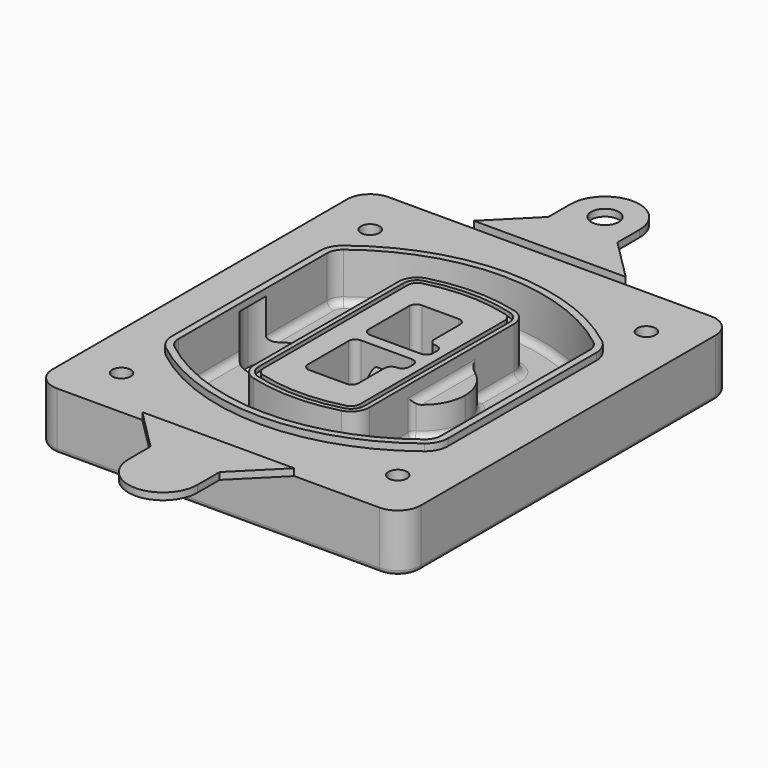
from build123d import *

# Parameters (mm, degrees)
F0_R      = 4
F1_DEPTH  = 25
F2_DEPTH  = 3
F3_DEPTH  = 18
F5_DEPTH  = 21
F6_DEPTH  = 2
F8_DEPTH  = 20
F9_DEPTH  = 16
F10_DEPTH = 25
F7_R      = 6
F7_R_2    = 4
F11_DEPTH = 6
F13_DEPTH = 9
F14_R     = 3
F15_R     = 2
F16_R     = 6
F17_DEPTH = 3


with BuildPart() as f1:
    # F0 (on Top) → F1 (new body)
    with BuildSketch(Plane.XY):
        with BuildLine():
            ThreePointArc((14.05, 38.3825811321), (16.9789321881, 31.3115133202), (24.05, 28.3825811321))
            Line((24.05, 28.3825811321), (164.05, 28.3825811321))
            ThreePointArc((164.05, 28.3825811321), (171.1210678119, 31.3115133202), (174.05, 38.3825811321))
            Line((174.05, 38.3825811321), (174.05, 198.3825811321))
            ThreePointArc((174.05, 198.3825811321), (171.1210678119, 205.4536489439), (164.05, 208.3825811321))
            Line((164.05, 208.3825811321), (24.05, 208.3825811321))
            ThreePointArc((24.05, 208.3825811321), (16.9789321881, 205.4536489439), (14.05, 198.3825811321))
            Line((14.05, 198.3825811321), (14.05, 38.3825811321))
        make_face()
        with Locations((34.05, 50.8825811321)):
            Circle(F0_R, mode=Mode.SUBTRACT)
        with Locations((154.05, 50.8825811321)):
            Circle(F0_R, mode=Mode.SUBTRACT)
        with BuildLine():
            ThreePointArc((30.05, 158.6760234193), (31.4679615202, 164.8154295545), (35.4346153846, 169.7112011673))
            ThreePointArc((35.4346153846, 169.7112011673), (94.05, 189.8825811321), (152.6653846154, 169.7112011673))
            ThreePointArc((152.6653846154, 169.7112011673), (156.6320384798, 164.8154295545), (158.05, 158.6760234193))
            Line((158.05, 158.6760234193), (158.05, 78.0891388448))
            ThreePointArc((158.05, 78.0891388448), (156.6320384798, 71.9497327097), (152.6653846154, 67.0539610969))
            ThreePointArc((152.6653846154, 67.0539610969), (94.05, 46.8825811321), (35.4346153846, 67.0539610969))
            ThreePointArc((35.4346153846, 67.0539610969), (31.4679615202, 71.9497327097), (30.05, 78.0891388448))
            Line((30.05, 78.0891388448), (30.05, 158.6760234193))
        make_face(mode=Mode.SUBTRACT)
        with Locations((34.05, 185.8825811321)):
            Circle(F0_R, mode=Mode.SUBTRACT)
        with Locations((154.05, 185.8825811321)):
            Circle(F0_R, mode=Mode.SUBTRACT)
        with BuildLine():
            ThreePointArc((152.6653846154, 169.7112011673), (94.05, 189.8825811321), (35.4346153846, 169.7112011673))
            ThreePointArc((35.4346153846, 169.7112011673), (31.4679615202, 164.8154295545), (30.05, 158.6760234193))
            Line((30.05, 158.6760234193), (30.05, 78.0891388448))
            ThreePointArc((30.05, 78.0891388448), (31.4679615202, 71.9497327097), (35.4346153846, 67.0539610969))
            ThreePointArc((35.4346153846, 67.0539610969), (94.05, 46.8825811321), (152.6653846154, 67.0539610969))
            ThreePointArc((152.6653846154, 67.0539610969), (156.6320384798, 71.9497327097), (158.05, 78.0891388448))
            Line((158.05, 78.0891388448), (158.05, 158.6760234193))
            ThreePointArc((158.05, 158.6760234193), (156.6320384798, 164.8154295545), (152.6653846154, 169.7112011673))
        make_face()
        with BuildLine():
            Line((34.05, 78.0891388448), (34.05, 158.6760234193))
            ThreePointArc((34.05, 158.6760234193), (35.0628296573, 163.0613135158), (37.8961538462, 166.5582932393))
            ThreePointArc((37.8961538462, 166.5582932393), (94.05, 185.8825811321), (150.2038461538, 166.5582932393))
            ThreePointArc((150.2038461538, 166.5582932393), (153.0371703427, 163.0613135158), (154.05, 158.6760234193))
            Line((154.05, 158.6760234193), (154.05, 78.0891388448))
            ThreePointArc((154.05, 78.0891388448), (153.0371703427, 73.7038487483), (150.2038461538, 70.2068690248))
            ThreePointArc((150.2038461538, 70.2068690248), (94.05, 50.8825811321), (37.8961538462, 70.2068690248))
            ThreePointArc((37.8961538462, 70.2068690248), (35.0628296573, 73.7038487483), (34.05, 78.0891388448))
        make_face(mode=Mode.SUBTRACT)
        with BuildLine():
            ThreePointArc((37.8961538462, 166.5582932393), (35.0628296573, 163.0613135158), (34.05, 158.6760234193))
            Line((34.05, 158.6760234193), (34.05, 78.0891388448))
            ThreePointArc((34.05, 78.0891388448), (35.0628296573, 73.7038487483), (37.8961538462, 70.2068690248))
            ThreePointArc((37.8961538462, 70.2068690248), (94.05, 50.8825811321), (150.2038461538, 70.2068690248))
            ThreePointArc((150.2038461538, 70.2068690248), (153.0371703427, 73.7038487483), (154.05, 78.0891388448))
            Line((154.05, 78.0891388448), (154.05, 158.6760234193))
            ThreePointArc((154.05, 158.6760234193), (153.0371703427, 163.0613135158), (150.2038461538, 166.5582932393))
            ThreePointArc((150.2038461538, 166.5582932393), (94.05, 185.8825811321), (37.8961538462, 166.5582932393))
        make_face()
        with BuildLine():
            ThreePointArc((148.3576923077, 164.1936122933), (150.3410192399, 161.7457264869), (151.05, 158.6760234193))
            Line((151.05, 158.6760234193), (151.05, 78.0891388448))
            ThreePointArc((151.05, 78.0891388448), (150.3410192399, 75.0194357772), (148.3576923077, 72.5715499708))
            ThreePointArc((148.3576923077, 72.5715499708), (94.05, 53.8825811321), (39.7423076923, 72.5715499708))
            ThreePointArc((39.7423076923, 72.5715499708), (37.7589807601, 75.0194357772), (37.05, 78.0891388448))
            Line((37.05, 78.0891388448), (37.05, 158.6760234193))
            ThreePointArc((37.05, 158.6760234193), (37.7589807601, 161.7457264869), (39.7423076923, 164.1936122933))
            ThreePointArc((39.7423076923, 164.1936122933), (94.05, 182.8825811321), (148.3576923077, 164.1936122933))
        make_face(mode=Mode.SUBTRACT)
        with BuildLine():
            Line((151.05, 78.0891388448), (151.05, 158.6760234193))
            ThreePointArc((151.05, 158.6760234193), (150.3410192399, 161.7457264869), (148.3576923077, 164.1936122933))
            ThreePointArc((148.3576923077, 164.1936122933), (94.05, 182.8825811321), (39.7423076923, 164.1936122933))
            ThreePointArc((39.7423076923, 164.1936122933), (37.7589807601, 161.7457264869), (37.05, 158.6760234193))
            Line((37.05, 158.6760234193), (37.05, 78.0891388448))
            ThreePointArc((37.05, 78.0891388448), (37.7589807601, 75.0194357772), (39.7423076923, 72.5715499708))
            ThreePointArc((39.7423076923, 72.5715499708), (94.05, 53.8825811321), (148.3576923077, 72.5715499708))
            ThreePointArc((148.3576923077, 72.5715499708), (150.3410192399, 75.0194357772), (151.05, 78.0891388448))
        make_face()
    extrude(amount=-F1_DEPTH)

    # F0 (on Top) → F2 (join)
    with BuildSketch(Plane.XY):
        with BuildLine():
            ThreePointArc((37.8961538462, 166.5582932393), (35.0628296573, 163.0613135158), (34.05, 158.6760234193))
            Line((34.05, 158.6760234193), (34.05, 78.0891388448))
            ThreePointArc((34.05, 78.0891388448), (35.0628296573, 73.7038487483), (37.8961538462, 70.2068690248))
            ThreePointArc((37.8961538462, 70.2068690248), (94.05, 50.8825811321), (150.2038461538, 70.2068690248))
            ThreePointArc((150.2038461538, 70.2068690248), (153.0371703427, 73.7038487483), (154.05, 78.0891388448))
            Line((154.05, 78.0891388448), (154.05, 158.6760234193))
            ThreePointArc((154.05, 158.6760234193), (153.0371703427, 163.0613135158), (150.2038461538, 166.5582932393))
            ThreePointArc((150.2038461538, 166.5582932393), (94.05, 185.8825811321), (37.8961538462, 166.5582932393))
        make_face()
        with BuildLine():
            ThreePointArc((148.3576923077, 164.1936122933), (150.3410192399, 161.7457264869), (151.05, 158.6760234193))
            Line((151.05, 158.6760234193), (151.05, 78.0891388448))
            ThreePointArc((151.05, 78.0891388448), (150.3410192399, 75.0194357772), (148.3576923077, 72.5715499708))
            ThreePointArc((148.3576923077, 72.5715499708), (94.05, 53.8825811321), (39.7423076923, 72.5715499708))
            ThreePointArc((39.7423076923, 72.5715499708), (37.7589807601, 75.0194357772), (37.05, 78.0891388448))
            Line((37.05, 78.0891388448), (37.05, 158.6760234193))
            ThreePointArc((37.05, 158.6760234193), (37.7589807601, 161.7457264869), (39.7423076923, 164.1936122933))
            ThreePointArc((39.7423076923, 164.1936122933), (94.05, 182.8825811321), (148.3576923077, 164.1936122933))
        make_face(mode=Mode.SUBTRACT)
    extrude(amount=F2_DEPTH)

    # F0 (on Top) → F3 (cut)
    with BuildSketch(Plane.XY):
        with BuildLine():
            Line((151.05, 78.0891388448), (151.05, 158.6760234193))
            ThreePointArc((151.05, 158.6760234193), (150.3410192399, 161.7457264869), (148.3576923077, 164.1936122933))
            ThreePointArc((148.3576923077, 164.1936122933), (94.05, 182.8825811321), (39.7423076923, 164.1936122933))
            ThreePointArc((39.7423076923, 164.1936122933), (37.7589807601, 161.7457264869), (37.05, 158.6760234193))
            Line((37.05, 158.6760234193), (37.05, 78.0891388448))
            ThreePointArc((37.05, 78.0891388448), (37.7589807601, 75.0194357772), (39.7423076923, 72.5715499708))
            ThreePointArc((39.7423076923, 72.5715499708), (94.05, 53.8825811321), (148.3576923077, 72.5715499708))
            ThreePointArc((148.3576923077, 72.5715499708), (150.3410192399, 75.0194357772), (151.05, 78.0891388448))
        make_face()
    extrude(amount=-F3_DEPTH, mode=Mode.SUBTRACT)

    # F4 (on face) → F5 (join, through all)
    with BuildSketch(Plane.XY.offset(3)):
        with BuildLine():
            ThreePointArc((69.05, 79.13605345), (70.6988454002, 74.2716074128), (74.9657088123, 71.4123412437))
            ThreePointArc((74.9657088123, 71.4123412437), (94.05, 68.8825811321), (113.1342911877, 71.4123412437))
            ThreePointArc((113.1342911877, 71.4123412437), (117.4011545998, 74.2716074128), (119.05, 79.13605345))
            Line((119.05, 79.13605345), (119.05, 157.6291088141))
            ThreePointArc((119.05, 157.6291088141), (117.4011545998, 162.4935548514), (113.1342911877, 165.3528210204))
            ThreePointArc((113.1342911877, 165.3528210204), (94.05, 167.8825811321), (74.9657088123, 165.3528210204))
            ThreePointArc((74.9657088123, 165.3528210204), (70.6988454002, 162.4935548514), (69.05, 157.6291088141))
            Line((69.05, 157.6291088141), (69.05, 79.13605345))
        make_face()
        with BuildLine():
            ThreePointArc((112.6132183908, 163.4218929688), (115.8133659499, 161.2774433421), (117.05, 157.6291088141))
            Line((117.05, 157.6291088141), (117.05, 79.13605345))
            ThreePointArc((117.05, 79.13605345), (115.8133659499, 75.4877189221), (112.6132183908, 73.3432692953))
            ThreePointArc((112.6132183908, 73.3432692953), (94.05, 70.8825811321), (75.4867816092, 73.3432692953))
            ThreePointArc((75.4867816092, 73.3432692953), (72.2866340501, 75.4877189221), (71.05, 79.13605345))
            Line((71.05, 79.13605345), (71.05, 157.6291088141))
            ThreePointArc((71.05, 157.6291088141), (72.2866340501, 161.2774433421), (75.4867816092, 163.4218929688))
            ThreePointArc((75.4867816092, 163.4218929688), (94.05, 165.8825811321), (112.6132183908, 163.4218929688))
        make_face(mode=Mode.SUBTRACT)
        with BuildLine():
            Line((117.05, 79.13605345), (117.05, 157.6291088141))
            ThreePointArc((117.05, 157.6291088141), (115.8133659499, 161.2774433421), (112.6132183908, 163.4218929688))
            ThreePointArc((112.6132183908, 163.4218929688), (94.05, 165.8825811321), (75.4867816092, 163.4218929688))
            ThreePointArc((75.4867816092, 163.4218929688), (72.2866340501, 161.2774433421), (71.05, 157.6291088141))
            Line((71.05, 157.6291088141), (71.05, 79.13605345))
            ThreePointArc((71.05, 79.13605345), (72.2866340501, 75.4877189221), (75.4867816092, 73.3432692953))
            ThreePointArc((75.4867816092, 73.3432692953), (94.05, 70.8825811321), (112.6132183908, 73.3432692953))
            ThreePointArc((112.6132183908, 73.3432692953), (115.8133659499, 75.4877189221), (117.05, 79.13605345))
        make_face()
        with BuildLine():
            ThreePointArc((112.0921455939, 161.4909649173), (114.2255772999, 160.0613318328), (115.05, 157.6291088141))
            Line((115.05, 157.6291088141), (115.05, 79.13605345))
            ThreePointArc((115.05, 79.13605345), (114.2255772999, 76.7038304314), (112.0921455939, 75.2741973469))
            ThreePointArc((112.0921455939, 75.2741973469), (94.05, 72.8825811321), (76.0078544061, 75.2741973469))
            ThreePointArc((76.0078544061, 75.2741973469), (73.8744227001, 76.7038304314), (73.05, 79.13605345))
            Line((73.05, 79.13605345), (73.05, 157.6291088141))
            ThreePointArc((73.05, 157.6291088141), (73.8744227001, 160.0613318328), (76.0078544061, 161.4909649173))
            ThreePointArc((76.0078544061, 161.4909649173), (94.05, 163.8825811321), (112.0921455939, 161.4909649173))
        make_face(mode=Mode.SUBTRACT)
        with BuildLine():
            Line((115.05, 79.13605345), (115.05, 157.6291088141))
            ThreePointArc((115.05, 157.6291088141), (114.2255772999, 160.0613318328), (112.0921455939, 161.4909649173))
            ThreePointArc((112.0921455939, 161.4909649173), (94.05, 163.8825811321), (76.0078544061, 161.4909649173))
            ThreePointArc((76.0078544061, 161.4909649173), (73.8744227001, 160.0613318328), (73.05, 157.6291088141))
            Line((73.05, 157.6291088141), (73.05, 79.13605345))
            ThreePointArc((73.05, 79.13605345), (73.8744227001, 76.7038304314), (76.0078544061, 75.2741973469))
            ThreePointArc((76.0078544061, 75.2741973469), (94.05, 72.8825811321), (112.0921455939, 75.2741973469))
            ThreePointArc((112.0921455939, 75.2741973469), (114.2255772999, 76.7038304314), (115.05, 79.13605345))
        make_face()
        with BuildLine():
            Line((86.05, 115.8825811321), (108.05, 115.8825811321))
            ThreePointArc((108.05, 115.8825811321), (110.1713203436, 115.0039014756), (111.05, 112.8825811321))
            Line((111.05, 112.8825811321), (111.05, 110.8825811321))
            ThreePointArc((111.05, 110.8825811321), (110.1713203436, 108.7612607885), (108.05, 107.8825811321))
            ThreePointArc((108.05, 107.8825811321), (105.9286796564, 107.0039014756), (105.05, 104.8825811321))
            Line((105.05, 104.8825811321), (105.05, 90.8825811321))
            ThreePointArc((105.05, 90.8825811321), (104.1713203436, 88.7612607885), (102.05, 87.8825811321))
            Line((102.05, 87.8825811321), (86.05, 87.8825811321))
            ThreePointArc((86.05, 87.8825811321), (83.9286796564, 88.7612607885), (83.05, 90.8825811321))
            Line((83.05, 90.8825811321), (83.05, 112.8825811321))
            ThreePointArc((83.05, 112.8825811321), (83.9286796564, 115.0039014756), (86.05, 115.8825811321))
        make_face(mode=Mode.SUBTRACT)
        with BuildLine():
            ThreePointArc((86.05, 120.8825811321), (83.9286796564, 121.7612607885), (83.05, 123.8825811321))
            Line((83.05, 123.8825811321), (83.05, 145.8825811321))
            ThreePointArc((83.05, 145.8825811321), (83.9286796564, 148.0039014756), (86.05, 148.8825811321))
            Line((86.05, 148.8825811321), (102.05, 148.8825811321))
            ThreePointArc((102.05, 148.8825811321), (104.1713203436, 148.0039014756), (105.05, 145.8825811321))
            Line((105.05, 145.8825811321), (105.05, 131.8825811321))
            ThreePointArc((105.05, 131.8825811321), (105.9286796564, 129.7612607885), (108.05, 128.8825811321))
            ThreePointArc((108.05, 128.8825811321), (110.1713203436, 128.0039014756), (111.05, 125.8825811321))
            Line((111.05, 125.8825811321), (111.05, 123.8825811321))
            ThreePointArc((111.05, 123.8825811321), (110.1713203436, 121.7612607885), (108.05, 120.8825811321))
            Line((108.05, 120.8825811321), (86.05, 120.8825811321))
        make_face(mode=Mode.SUBTRACT)
    extrude(amount=-F5_DEPTH)

    # F4 (on face) → F6 (cut)
    with BuildSketch(Plane.XY.offset(3)):
        with BuildLine():
            Line((117.05, 79.13605345), (117.05, 157.6291088141))
            ThreePointArc((117.05, 157.6291088141), (115.8133659499, 161.2774433421), (112.6132183908, 163.4218929688))
            ThreePointArc((112.6132183908, 163.4218929688), (94.05, 165.8825811321), (75.4867816092, 163.4218929688))
            ThreePointArc((75.4867816092, 163.4218929688), (72.2866340501, 161.2774433421), (71.05, 157.6291088141))
            Line((71.05, 157.6291088141), (71.05, 79.13605345))
            ThreePointArc((71.05, 79.13605345), (72.2866340501, 75.4877189221), (75.4867816092, 73.3432692953))
            ThreePointArc((75.4867816092, 73.3432692953), (94.05, 70.8825811321), (112.6132183908, 73.3432692953))
            ThreePointArc((112.6132183908, 73.3432692953), (115.8133659499, 75.4877189221), (117.05, 79.13605345))
        make_face()
        with BuildLine():
            ThreePointArc((112.0921455939, 161.4909649173), (114.2255772999, 160.0613318328), (115.05, 157.6291088141))
            Line((115.05, 157.6291088141), (115.05, 79.13605345))
            ThreePointArc((115.05, 79.13605345), (114.2255772999, 76.7038304314), (112.0921455939, 75.2741973469))
            ThreePointArc((112.0921455939, 75.2741973469), (94.05, 72.8825811321), (76.0078544061, 75.2741973469))
            ThreePointArc((76.0078544061, 75.2741973469), (73.8744227001, 76.7038304314), (73.05, 79.13605345))
            Line((73.05, 79.13605345), (73.05, 157.6291088141))
            ThreePointArc((73.05, 157.6291088141), (73.8744227001, 160.0613318328), (76.0078544061, 161.4909649173))
            ThreePointArc((76.0078544061, 161.4909649173), (94.05, 163.8825811321), (112.0921455939, 161.4909649173))
        make_face(mode=Mode.SUBTRACT)
    extrude(amount=-F6_DEPTH, mode=Mode.SUBTRACT)

    # F7 (on face) → F8 (join)
    with BuildSketch(Plane(origin=(0, 0, -25), x_dir=(1, 0, 0), z_dir=(0, 0, -1))):
        with BuildLine():
            ThreePointArc((97.33842436, -118.3825811321), (110.8067035675, -104.9143019245), (124.274982775, -118.3825811321))
            Line((124.274982775, -118.3825811321), (129.274982775, -118.3825811321))
            ThreePointArc((129.274982775, -118.3825811321), (110.8067035675, -99.9143019245), (92.33842436, -118.3825811321))
            Line((92.33842436, -118.3825811321), (97.33842436, -118.3825811321))
        make_face()
        with BuildLine():
            Line((97.33842436, -118.3825811321), (124.274982775, -118.3825811321))
            ThreePointArc((124.274982775, -118.3825811321), (110.8067035675, -104.9143019245), (97.33842436, -118.3825811321))
        make_face()
        with BuildLine():
            ThreePointArc((97.33842436, -118.3825811321), (110.8067035675, -131.8508603396), (124.274982775, -118.3825811321))
            Line((124.274982775, -118.3825811321), (97.33842436, -118.3825811321))
        make_face()
        with BuildLine():
            Line((129.274982775, -118.3825811321), (124.274982775, -118.3825811321))
            ThreePointArc((124.274982775, -118.3825811321), (110.8067035675, -131.8508603396), (97.33842436, -118.3825811321))
            Line((97.33842436, -118.3825811321), (92.33842436, -118.3825811321))
            ThreePointArc((92.33842436, -118.3825811321), (110.8067035675, -136.8508603396), (129.274982775, -118.3825811321))
        make_face()
    extrude(amount=-F8_DEPTH)

    # F7 (on face) → F9 (cut)
    with BuildSketch(Plane(origin=(0, 0, -25), x_dir=(1, 0, 0), z_dir=(0, 0, -1))):
        with BuildLine():
            Line((97.33842436, -118.3825811321), (124.274982775, -118.3825811321))
            ThreePointArc((124.274982775, -118.3825811321), (110.8067035675, -104.9143019245), (97.33842436, -118.3825811321))
        make_face()
        with BuildLine():
            ThreePointArc((97.33842436, -118.3825811321), (110.8067035675, -131.8508603396), (124.274982775, -118.3825811321))
            Line((124.274982775, -118.3825811321), (97.33842436, -118.3825811321))
        make_face()
    extrude(amount=-F9_DEPTH, mode=Mode.SUBTRACT)

    # F7 (on face) → F10 (cut)
    with BuildSketch(Plane(origin=(0, 0, -25), x_dir=(1, 0, 0), z_dir=(0, 0, -1))):
        with BuildLine():
            Line((35.0181770675, -118.3825811321), (61.9547354825, -118.3825811321))
            ThreePointArc((61.9547354825, -118.3825811321), (48.486456275, -104.9143019245), (35.0181770675, -118.3825811321))
        make_face()
        with BuildLine():
            ThreePointArc((35.0181770675, -118.3825811321), (48.486456275, -131.8508603396), (61.9547354825, -118.3825811321))
            Line((61.9547354825, -118.3825811321), (35.0181770675, -118.3825811321))
        make_face()
    extrude(amount=-F10_DEPTH, mode=Mode.SUBTRACT)

    # F7 (on face) → F11 (cut)
    with BuildSketch(Plane(origin=(0, 0, -25), x_dir=(1, 0, 0), z_dir=(0, 0, -1))):
        with Locations((154.05, -185.8825811321)):
            Circle(F7_R)
        with Locations((154.05, -185.8825811321)):
            Circle(F7_R_2, mode=Mode.SUBTRACT)
        with Locations((154.05, -185.8825811321)):
            Circle(F7_R)
        with Locations((154.05, -185.8825811321)):
            Circle(F7_R_2, mode=Mode.SUBTRACT)
        with Locations((34.05, -185.8825811321)):
            Circle(F7_R)
        with Locations((34.05, -185.8825811321)):
            Circle(F7_R_2, mode=Mode.SUBTRACT)
        with Locations((34.05, -185.8825811321)):
            Circle(F7_R)
        with Locations((34.05, -185.8825811321)):
            Circle(F7_R_2, mode=Mode.SUBTRACT)
        with Locations((34.05, -50.8825811321)):
            Circle(F7_R)
        with Locations((34.05, -50.8825811321)):
            Circle(F7_R_2, mode=Mode.SUBTRACT)
        with Locations((34.05, -50.8825811321)):
            Circle(F7_R)
        with Locations((34.05, -50.8825811321)):
            Circle(F7_R_2, mode=Mode.SUBTRACT)
        with Locations((154.05, -50.8825811321)):
            Circle(F7_R)
        with Locations((154.05, -50.8825811321)):
            Circle(F7_R_2, mode=Mode.SUBTRACT)
        with Locations((154.05, -50.8825811321)):
            Circle(F7_R)
        with Locations((154.05, -50.8825811321)):
            Circle(F7_R_2, mode=Mode.SUBTRACT)
    extrude(amount=-F11_DEPTH, mode=Mode.SUBTRACT)

    # F12 (on face) → F13 (cut, through all)
    with BuildSketch(Plane(origin=(0, 0, -9), x_dir=(1, 0, 0), z_dir=(0, 0, -1))):
        with BuildLine():
            Line((105.05, -104.8825811321), (105.05, -100.8344273567))
            ThreePointArc((105.05, -100.8344273567), (96.6196536419, -106.5586667507), (92.5084157545, -115.8825811321))
            Line((92.5084157545, -115.8825811321), (97.5724848595, -115.8825811321))
            ThreePointArc((97.5724848595, -115.8825811321), (100.2357188154, -110.0369939039), (105.3036447004, -106.0898642673))
            ThreePointArc((105.3036447004, -106.0898642673), (105.1140958889, -105.4994012441), (105.05, -104.8825811321))
        make_face()
        with BuildLine():
            ThreePointArc((105.3036447004, -130.6752979968), (100.2357188154, -126.7281683602), (97.5724848595, -120.8825811321))
            Line((97.5724848595, -120.8825811321), (92.5084157545, -120.8825811321))
            ThreePointArc((92.5084157545, -120.8825811321), (96.6196536419, -130.2064955134), (105.05, -135.9307349074))
            Line((105.05, -135.9307349074), (105.05, -131.8825811321))
            ThreePointArc((105.05, -131.8825811321), (105.1140958889, -131.26576102), (105.3036447004, -130.6752979968))
        make_face()
        with BuildLine():
            ThreePointArc((105.3036447004, -106.0898642673), (100.2357188154, -110.0369939039), (97.5724848595, -115.8825811321))
            Line((97.5724848595, -115.8825811321), (108.05, -115.8825811321))
            ThreePointArc((108.05, -115.8825811321), (110.1713203436, -115.0039014756), (111.05, -112.8825811321))
            Line((111.05, -112.8825811321), (111.05, -110.8825811321))
            ThreePointArc((111.05, -110.8825811321), (110.1713203436, -108.7612607885), (108.05, -107.8825811321))
            ThreePointArc((108.05, -107.8825811321), (106.4101599782, -107.3947365219), (105.3036447004, -106.0898642673))
        make_face()
        with BuildLine():
            Line((108.05, -120.8825811321), (97.5724848595, -120.8825811321))
            ThreePointArc((97.5724848595, -120.8825811321), (100.2357188154, -126.7281683602), (105.3036447004, -130.6752979968))
            ThreePointArc((105.3036447004, -130.6752979968), (106.4101599782, -129.3704257422), (108.05, -128.8825811321))
            ThreePointArc((108.05, -128.8825811321), (110.1713203436, -128.0039014756), (111.05, -125.8825811321))
            Line((111.05, -125.8825811321), (111.05, -123.8825811321))
            ThreePointArc((111.05, -123.8825811321), (110.1713203436, -121.7612607885), (108.05, -120.8825811321))
        make_face()
    extrude(amount=F13_DEPTH, mode=Mode.SUBTRACT)

    # F14
    f14_edges = [f1.edges().sort_by_distance(p)[0] for p in [
        (37.05, 94.679105, -18),
        (37.05, 142.086057, -18),
        (119.05, 118.382581, -5),
        (119.05, 134.909087, -11.5),
        (119.05, 101.856075, -11.5),
        (119.05, 90.496064, -18),
        (129.274983, 118.382581, -18),
    ]]
    fillet(f14_edges, radius=F14_R)

    # F15
    f15_edges = [f1.edges().sort_by_distance(p)[0] for p in [
        (94.05, 28.382581, -25),
    ]]
    fillet(f15_edges, radius=F15_R)


with BuildPart() as f17:
    # F16 (on face) → F17 (new body, through all)
    with BuildSketch(Plane.XY):
        with BuildLine():
            Line((79.05, 226.3825811321), (61.05, 208.3825811321))
            Line((61.05, 208.3825811321), (127.05, 208.3825811321))
            Line((127.05, 208.3825811321), (109.05, 226.3825811321))
            Line((109.05, 226.3825811321), (109.05, 238.3825811321))
            ThreePointArc((109.05, 238.3825811321), (94.05, 253.3825811321), (79.05, 238.3825811321))
            Line((79.05, 238.3825811321), (79.05, 226.3825811321))
        make_face()
        with Locations((94.05, 238.3825811321)):
            Circle(F16_R, mode=Mode.SUBTRACT)
    extrude(amount=F17_DEPTH)


with BuildPart() as f17b:
    # F16 (on face) → F17, piece 2 (new body, through all)
    with BuildSketch(Plane.XY):
        with BuildLine():
            Line((127.05, 28.3825811321), (61.05, 28.3825811321))
            Line((61.05, 28.3825811321), (79.05, 10.3825811321))
            Line((79.05, 10.3825811321), (79.05, -1.6174188679))
            ThreePointArc((79.05, -1.6174188679), (94.05, -16.6174188679), (109.05, -1.6174188679))
            Line((109.05, -1.6174188679), (109.05, 10.3825811321))
            Line((109.05, 10.3825811321), (127.05, 28.3825811321))
        make_face()
    extrude(amount=F17_DEPTH)


solid = Compound([f1.part, f17.part, f17b.part])
